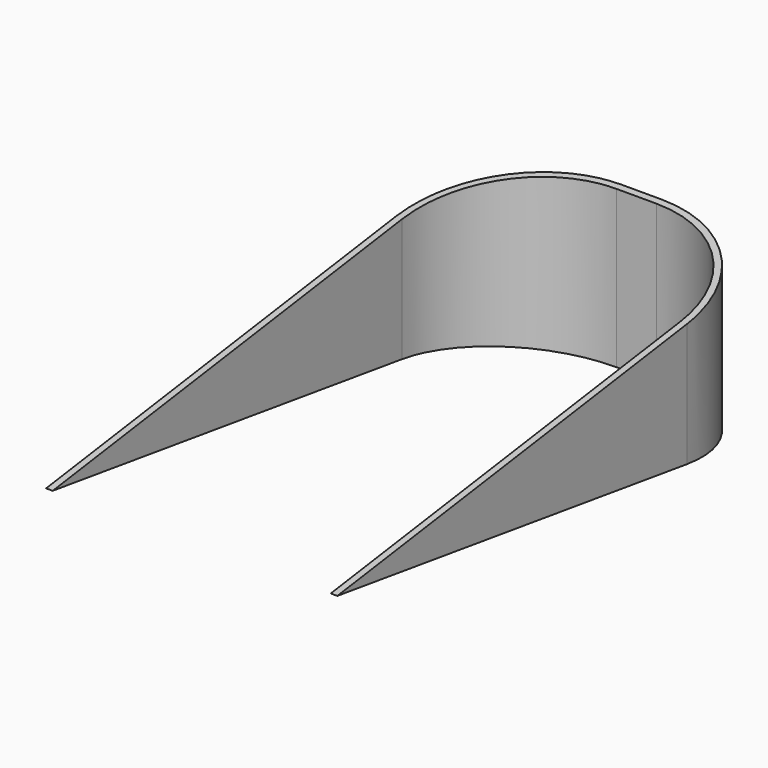
from build123d import *

# Parameters (mm, degrees)
F1_DEPTH = 1219.2
F3_DEPTH = 2235.201


with BuildPart() as f1:
    # F0 (on Top) → F1 (new body)
    with BuildSketch(Plane.XY):
        with BuildLine():
            ThreePointArc((-1022.35, 1219.2), (-754.528440717, 1865.778440717), (-107.95, 2133.6))
            Line((-107.95, 2133.6), (196.85, 2133.6))
            ThreePointArc((196.85, 2133.6), (843.428440717, 1865.778440717), (1111.25, 1219.2))
            Line((1111.25, 1219.2), (1111.25, -2133.6))
            Line((1111.25, -2133.6), (1162.05, -2133.6))
            Line((1162.05, -2133.6), (1162.05, 1219.2))
            ThreePointArc((1162.05, 1219.2), (879.3494652013, 1901.6994652013), (196.85, 2184.4))
            Line((196.85, 2184.4), (-107.95, 2184.4))
            ThreePointArc((-107.95, 2184.4), (-790.4494652013, 1901.6994652013), (-1073.15, 1219.2))
            Line((-1073.15, 1219.2), (-1073.15, -2133.6))
            Line((-1073.15, -2133.6), (-1022.35, -2133.6))
            Line((-1022.35, -2133.6), (-1022.35, 1219.2))
        make_face()
    extrude(amount=F1_DEPTH)

    # F2 (on face) → F3 (cut, through all)
    with BuildSketch(Plane.YZ.offset(1162.05)):
        Polygon((1219.2, 1082.9364705882), (1219.2, 1219.2), (-2133.6, 1219.2), (-2133.6, 609.6), align=None)
        Polygon((1219.2, 1082.9364705882), (2184.4, 1219.2), (1219.2, 1219.2), align=None)
        Polygon((1219.2, 136.2635294118), (-2133.6, 609.6), (-2133.6, 0), (1219.2, 0), align=None)
        Polygon((1219.2, 136.2635294118), (-2133.6, 609.6), (-2133.6, 0), (1219.2, 0), align=None)
        Polygon((1219.2, 0), (2184.4, 0), (1219.2, 136.2635294118), align=None)
    extrude(amount=-F3_DEPTH, mode=Mode.SUBTRACT)


solid = f1.part
